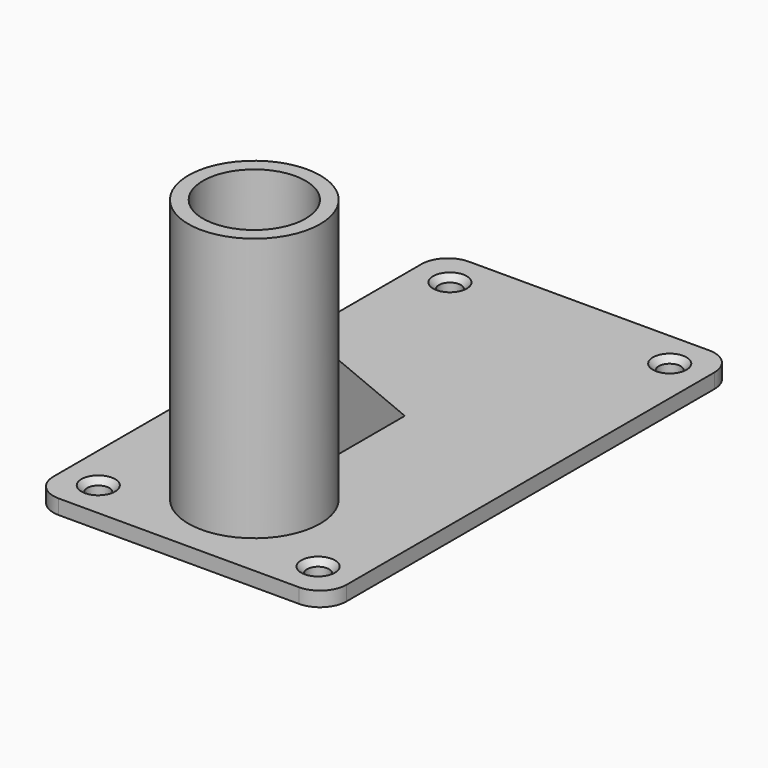
from build123d import *

# Parameters (mm, degrees)
F0_R     = 22.5
F0_R_2   = 17.5
F1_DEPTH = 90
F0_R_3   = 3.75
F2_DEPTH = 5
F4_DEPTH = 1.25
F5_SIZE  = 2


with BuildPart() as f1:
    # F0 (on Top) → F1 (new body)
    with BuildSketch(Plane.XY):
        with Locations((0, -55.321414)):
            Circle(F0_R)
        with Locations((0, -55.321414)):
            Circle(F0_R_2, mode=Mode.SUBTRACT)
    extrude(amount=F1_DEPTH)


with BuildPart() as f2:
    # F0 (on Top) → F2 (new body)
    with BuildSketch(Plane.XY):
        with BuildLine():
            ThreePointArc((-50, -78.5), (-47.363961, -84.863961), (-41, -87.5))
            Line((-41, -87.5), (41, -87.5))
            ThreePointArc((41, -87.5), (47.363961, -84.863961), (50, -78.5))
            Line((50, -78.5), (50, 78.5))
            ThreePointArc((50, 78.5), (47.363961, 84.863961), (41, 87.5))
            Line((41, 87.5), (-41, 87.5))
            ThreePointArc((-41, 87.5), (-47.363961, 84.863961), (-50, 78.5))
            Line((-50, 78.5), (-50, -78.5))
        make_face()
        with Locations((-37.5, -75)):
            Circle(F0_R_3, mode=Mode.SUBTRACT)
        with Locations((0, -55.321414)):
            Circle(F0_R, mode=Mode.SUBTRACT)
        with Locations((37.5, -75)):
            Circle(F0_R_3, mode=Mode.SUBTRACT)
        with Locations((-37.5, 75)):
            Circle(F0_R_3, mode=Mode.SUBTRACT)
        with Locations((37.5, 75)):
            Circle(F0_R_3, mode=Mode.SUBTRACT)
        with Locations((0, -55.321414)):
            Circle(F0_R)
        with Locations((0, -55.321414)):
            Circle(F0_R_2, mode=Mode.SUBTRACT)
        with Locations((0, -55.321414)):
            Circle(F0_R_2)
    extrude(amount=-F2_DEPTH)

    # F3 (on Right) → F4 (join, symmetric)
    with BuildSketch(Plane.YZ):
        Polygon((-32.68955, 40), (-32.68955, 0), (7.31045, 0), align=None)
    extrude(amount=F4_DEPTH, both=True)

    # F5
    f5_edges = [f2.edges().sort_by_distance(p)[0] for p in [
        (33.75, 75, 0),
        (-41.25, 75, 0),
        (33.75, -75, 0),
        (-41.25, -75, 0),
    ]]
    chamfer(f5_edges, length=F5_SIZE)


solid = Compound([f1.part, f2.part])
